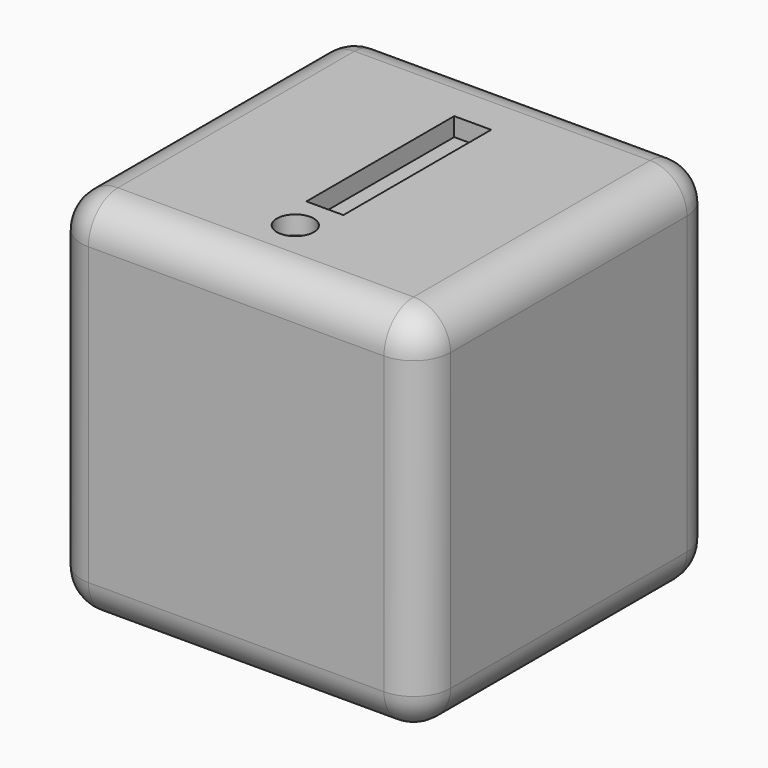
from build123d import *

# Parameters (mm, degrees)
F0_W     = 25.4
F0_H     = 25.4
F1_DEPTH = 25.4
F2_R     = 2.54
F3_W     = 2.54
F3_H     = 12.7
F3_R     = 1.27
F4_DEPTH = 1.27


with BuildPart() as f1:
    # F0 (on Top) → F1 (new body)
    with BuildSketch(Plane.XY):
        with Locations((2.765542, -3.050883)):
            Rectangle(F0_W, F0_H)
    extrude(amount=F1_DEPTH)

    # F2
    f2_edges = [f1.edges().sort_by_distance(p)[0] for p in [
        (2.765542, -15.750883, 25.4),
        (15.465542, -3.050883, 25.4),
        (15.465542, -15.750883, 12.7),
        (15.465542, -3.050883, 0),
        (2.765542, -15.750883, 0),
        (-9.934458, -15.750883, 12.7),
        (-9.934458, -3.050883, 0),
        (2.765542, 9.649117, 0),
        (2.765542, 9.649117, 25.4),
        (-9.934458, -3.050883, 25.4),
        (-9.934458, 9.649117, 12.7),
        (15.465542, 9.649117, 12.7),
    ]]
    fillet(f2_edges, radius=F2_R)

    # F3 (on face) → F4 (cut)
    with BuildSketch(Plane.XY.offset(25.4)):
        with Locations((2.765542, -1.780883)):
            Rectangle(F3_W, F3_H)
        with Locations((2.765542, -10.670883)):
            Circle(F3_R)
    extrude(amount=-F4_DEPTH, mode=Mode.SUBTRACT)


solid = f1.part
